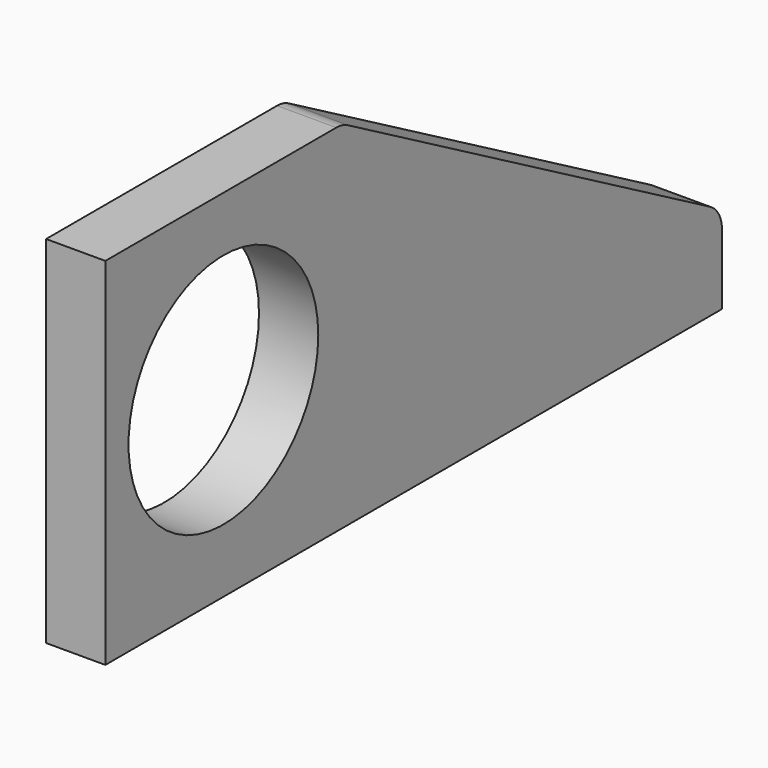
from build123d import *

# Parameters (mm, degrees)
F0_R     = 25.4
F1_DEPTH = 12.7


with BuildPart() as f1:
    # F0 (on Right) → F1 (new body)
    with BuildSketch(Plane.YZ):
        with BuildLine():
            Line((24.645962, 21.101658), (-37.184036, 21.101658))
            Line((-37.184036, 21.101658), (-37.184036, -55.098342))
            Line((-37.184036, -55.098342), (26.315964, -55.098342))
            Line((26.315964, -55.098342), (127.915964, -55.098342))
            Line((127.915964, -55.098342), (127.915964, -40.014722))
            ThreePointArc((127.915964, -40.014722), (127.050465, -36.814292), (124.689901, -34.486294))
            Line((124.689901, -34.486294), (27.769899, 20.280086))
            ThreePointArc((27.769899, 20.280086), (26.261044, 20.892831), (24.645962, 21.101658))
        make_face()
        with Locations((-5.576061, -16.079806)):
            Circle(F0_R, mode=Mode.SUBTRACT)
    extrude(amount=F1_DEPTH)


solid = f1.part
